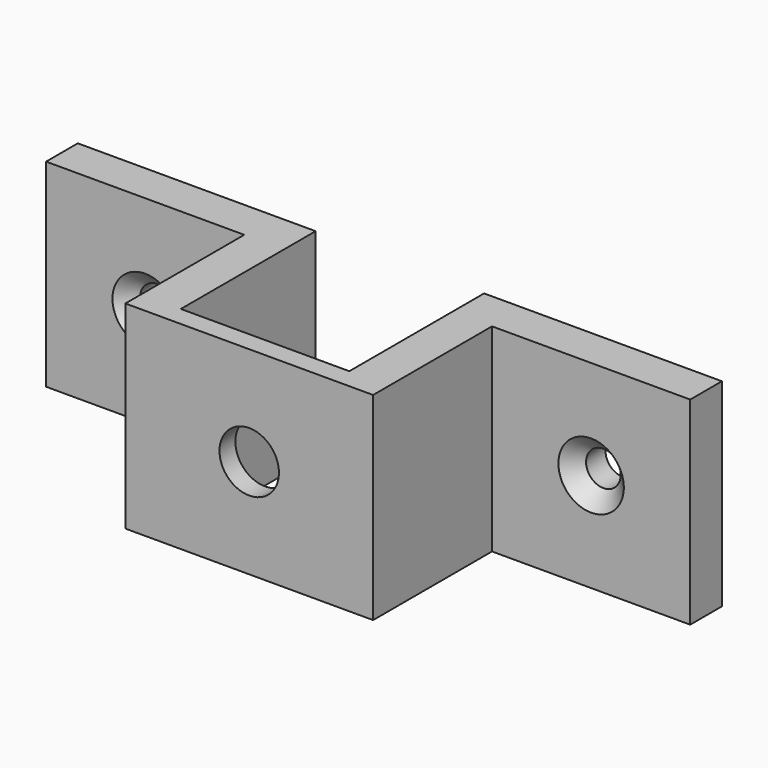
from build123d import *

# Parameters (mm, degrees)
F1_DEPTH       = 25.4
F3_D           = 7.62
F6_D           = 4.445
F6_CSINK_D     = 8.382
F6_CSINK_ANGLE = 90
F7_D           = 4.445
F7_CSINK_D     = 8.382
F7_CSINK_ANGLE = 90


with BuildPart() as f1:
    # F0 (on Top) → F1 (new body)
    with BuildSketch(Plane.XY):
        Polygon((-10.795, 24.13), (-41.275, 24.13), (-41.275, 19.05), (-15.875, 19.05), (-15.875, 0), (15.875, 0), (15.875, 19.05), (41.275, 19.05), (41.275, 24.13), (10.795, 24.13), (10.795, 2.54), (-10.795, 2.54), align=None)
    extrude(amount=F1_DEPTH)

    # F3 (through all)
    with Locations(Plane.XZ):
        with Locations((0, 12.7)):
            Hole(F3_D / 2)

    # F6 (through all)
    with Locations(Plane.XZ.offset(-19.05)):
        with Locations((-28.575, 12.7)):
            CounterSinkHole(F6_D / 2, F6_CSINK_D / 2, counter_sink_angle=F6_CSINK_ANGLE)

    # F7 (through all)
    with Locations(Plane.XZ.offset(-19.05)):
        with Locations((28.575, 12.7)):
            CounterSinkHole(F7_D / 2, F7_CSINK_D / 2, counter_sink_angle=F7_CSINK_ANGLE)


solid = f1.part
